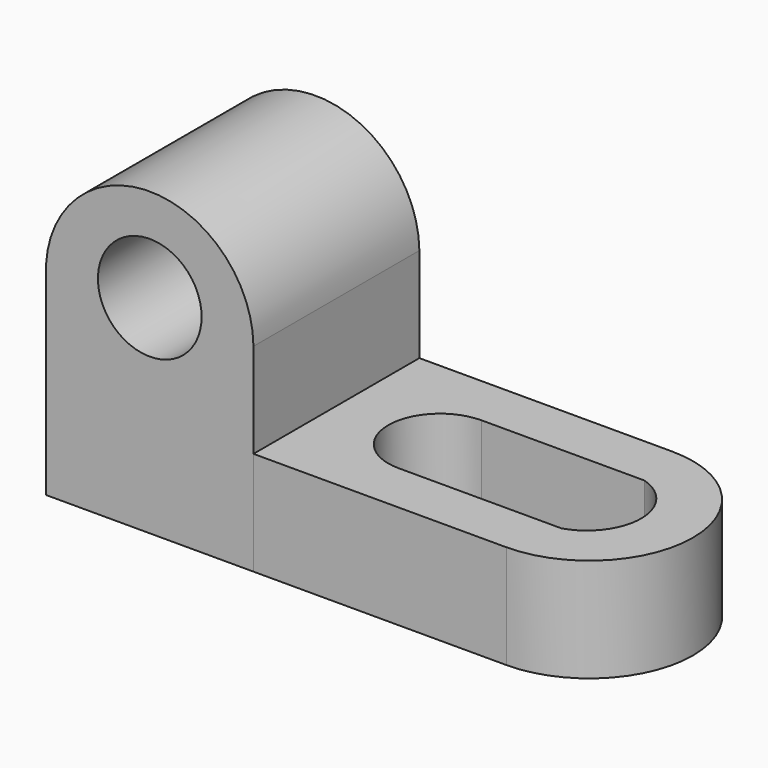
from build123d import *

# Parameters (mm, degrees)
F0_W      = 44.45
F0_H      = 25.4
F1_DEPTH  = 12.7
F3_DEPTH  = 12.7
F5_DEPTH  = 25.4
F7_DEPTH  = 38.1
F8_R      = 6.35
F9_DEPTH  = 25.4
F11_DEPTH = 25.4


with BuildPart() as f1:
    # F0 (on Top) → F1 (new body)
    with BuildSketch(Plane.XY):
        with Locations((22.225, 12.7)):
            Rectangle(F0_W, F0_H)
    extrude(amount=F1_DEPTH)

    # F2 (on face) → F3 (cut)
    with BuildSketch(Plane.XY.offset(12.7)):
        with BuildLine():
            ThreePointArc((30.971239947, 25.4), (43.6712407327, 12.7000003929), (30.9712407327, 0))
            Line((30.9712407327, 0), (44.45, 0))
            Line((44.45, 0), (44.45, 25.4))
            Line((44.45, 25.4), (30.971239947, 25.4))
        make_face()
    extrude(amount=-F3_DEPTH, mode=Mode.SUBTRACT)

    # F4 (on face) → F5 (join)
    with BuildSketch(Plane.XY.offset(12.7)):
        with BuildLine():
            Line((32.6362041169, 19.05), (12.7, 19.05))
            ThreePointArc((12.7, 19.05), (6.35, 12.7), (12.7, 6.35))
            Line((12.7, 6.35), (32.6362041169, 6.35))
            ThreePointArc((32.6362041169, 6.35), (37.3212407327, 12.7), (32.6362041169, 19.05))
        make_face()
    extrude(amount=F5_DEPTH)

    # F6 (on face) → F7 (cut)
    with BuildSketch(Plane.XY.offset(38.1)):
        with BuildLine():
            Line((12.7, 6.35), (32.6362041169, 6.35))
            ThreePointArc((32.6362041169, 6.35), (37.3212407327, 12.7), (32.6362041169, 19.05))
            Line((32.6362041169, 19.05), (12.7, 19.05))
            ThreePointArc((12.7, 19.05), (6.35, 12.7), (12.7, 6.35))
        make_face()
    extrude(amount=-F7_DEPTH, mode=Mode.SUBTRACT)


with BuildPart() as f9:
    # F8 (on face) → F9 (new body)
    with BuildSketch(Plane.XZ):
        with BuildLine():
            ThreePointArc((-25.4, 25.4), (-12.7, 37.5597154701), (0, 25.4))
            Line((0, 25.4), (0, 38.1))
            Line((0, 38.1), (-25.4, 38.1))
            Line((-25.4, 38.1), (-25.4, 25.4))
        make_face()
        with BuildLine():
            Line((-25.4, 0), (0, 0))
            Line((0, 0), (0, 12.7))
            Line((0, 12.7), (0, 25.4))
            ThreePointArc((0, 25.4), (-12.7, 37.5597154701), (-25.4, 25.4))
            Line((-25.4, 25.4), (-25.4, 0))
        make_face()
        with Locations((-12.7, 25.4)):
            Circle(F8_R, mode=Mode.SUBTRACT)
    extrude(amount=-F9_DEPTH)

    # F10 (on face) → F11 (cut)
    with BuildSketch(Plane.XZ):
        with BuildLine():
            ThreePointArc((-25.4, 24.91607517), (-12.4012801532, 36.8635460854), (0, 24.2970418185))
            Line((0, 24.2970418185), (0, 38.1))
            Line((0, 38.1), (-25.4, 38.1))
            Line((-25.4, 38.1), (-25.4, 24.91607517))
        make_face()
    extrude(amount=-F11_DEPTH, mode=Mode.SUBTRACT)


solid = Compound([f1.part, f9.part])
